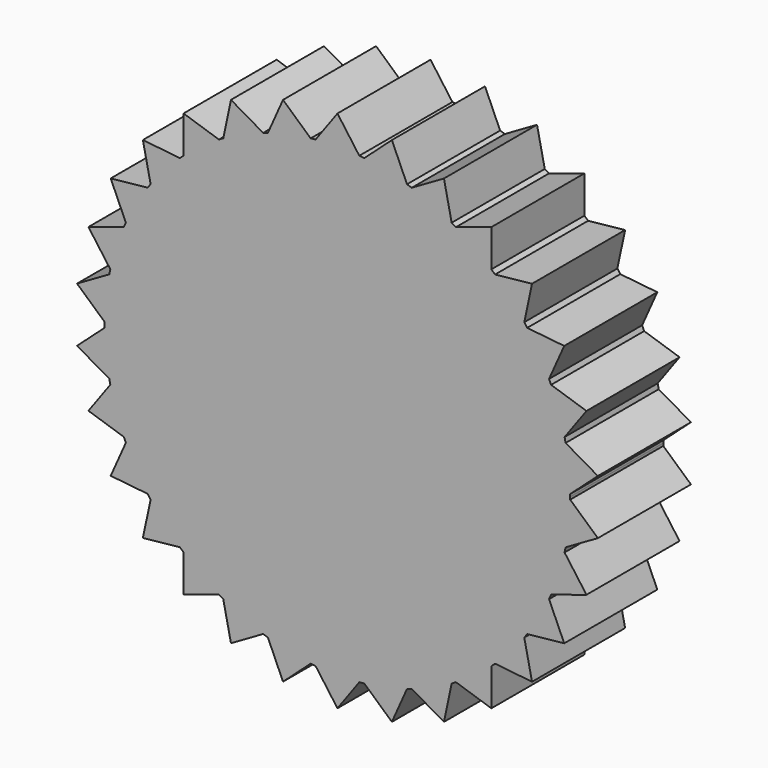
from build123d import *

# Parameters (mm, degrees)
F1_DEPTH = 12.7


with BuildPart() as f1:
    # F0 (on Front) → F1 (new body)
    with BuildSketch(Plane.XZ):
        with BuildLine():
            ThreePointArc((25.398552, -0.271215), (25.399638, -0.135609), (25.4, 0))
            ThreePointArc((25.4, 0), (25.399638, 0.135609), (25.398552, 0.271215))
            ThreePointArc((25.398552, 0.271215), (25.260856, 2.655023), (24.899921, 5.015368))
            ThreePointArc((24.899921, 5.015368), (24.844949, 5.280957), (24.787144, 5.545944))
            ThreePointArc((24.787144, 5.545944), (24.156836, 7.849032), (23.313045, 10.082755))
            ThreePointArc((23.313045, 10.082755), (23.204055, 10.331111), (23.092419, 10.578289))
            ThreePointArc((23.092419, 10.578289), (21.997045, 12.7), (20.707276, 14.709477))
            ThreePointArc((20.707276, 14.709477), (20.549032, 14.929745), (20.388444, 15.148311))
            ThreePointArc((20.388444, 15.148311), (18.875879, 16.995917), (17.1965, 18.693325))
            ThreePointArc((17.1965, 18.693325), (16.995917, 18.875879), (16.793397, 19.05628))
            ThreePointArc((16.793397, 19.05628), (14.929745, 20.549032), (12.934155, 21.860184))
            ThreePointArc((12.934155, 21.860184), (12.7, 21.997045), (12.464397, 22.131399))
            ThreePointArc((12.464397, 22.131399), (10.331111, 23.204055), (8.106525, 24.071648))
            ThreePointArc((8.106525, 24.071648), (7.849032, 24.156836), (7.590644, 24.239268))
            ThreePointArc((7.590644, 24.239268), (5.280957, 24.844949), (2.9246, 25.231066))
            ThreePointArc((2.9246, 25.231066), (2.655023, 25.260856), (2.385143, 25.287766))
            ThreePointArc((2.385143, 25.287766), (1.193891, 25.371926), (0, 25.4))
            ThreePointArc((0, 25.4), (-1.193891, 25.371926), (-2.385143, 25.287766))
            ThreePointArc((-2.385143, 25.287766), (-2.655023, 25.260856), (-2.9246, 25.231066))
            ThreePointArc((-2.9246, 25.231066), (-5.280957, 24.844949), (-7.590644, 24.239268))
            ThreePointArc((-7.590644, 24.239268), (-7.849032, 24.156836), (-8.106525, 24.071648))
            ThreePointArc((-8.106525, 24.071648), (-10.331111, 23.204055), (-12.464397, 22.131399))
            ThreePointArc((-12.464397, 22.131399), (-12.7, 21.997045), (-12.934155, 21.860184))
            ThreePointArc((-12.934155, 21.860184), (-14.929745, 20.549032), (-16.793397, 19.05628))
            ThreePointArc((-16.793397, 19.05628), (-16.995917, 18.875879), (-17.1965, 18.693325))
            ThreePointArc((-17.1965, 18.693325), (-18.875879, 16.995917), (-20.388444, 15.148311))
            ThreePointArc((-20.388444, 15.148311), (-20.549032, 14.929745), (-20.707276, 14.709477))
            ThreePointArc((-20.707276, 14.709477), (-21.997045, 12.7), (-23.092419, 10.578289))
            ThreePointArc((-23.092419, 10.578289), (-23.204055, 10.331111), (-23.313045, 10.082755))
            ThreePointArc((-23.313045, 10.082755), (-24.156836, 7.849032), (-24.787144, 5.545944))
            ThreePointArc((-24.787144, 5.545944), (-24.844949, 5.280957), (-24.899921, 5.015368))
            ThreePointArc((-24.899921, 5.015368), (-25.260856, 2.655023), (-25.398552, 0.271215))
            ThreePointArc((-25.398552, 0.271215), (-25.4, 0), (-25.398552, -0.271215))
            ThreePointArc((-25.398552, -0.271215), (-25.260856, -2.655023), (-24.899921, -5.015368))
            ThreePointArc((-24.899921, -5.015368), (-24.844949, -5.280957), (-24.787144, -5.545944))
            ThreePointArc((-24.787144, -5.545944), (-24.156836, -7.849032), (-23.313045, -10.082755))
            ThreePointArc((-23.313045, -10.082755), (-23.204055, -10.331111), (-23.092419, -10.578289))
            ThreePointArc((-23.092419, -10.578289), (-21.997045, -12.7), (-20.707276, -14.709477))
            ThreePointArc((-20.707276, -14.709477), (-20.549032, -14.929745), (-20.388444, -15.148311))
            ThreePointArc((-20.388444, -15.148311), (-18.875879, -16.995917), (-17.1965, -18.693325))
            ThreePointArc((-17.1965, -18.693325), (-16.995917, -18.875879), (-16.793397, -19.05628))
            ThreePointArc((-16.793397, -19.05628), (-14.929745, -20.549032), (-12.934155, -21.860184))
            ThreePointArc((-12.934155, -21.860184), (-12.7, -21.997045), (-12.464397, -22.131399))
            ThreePointArc((-12.464397, -22.131399), (-10.331111, -23.204055), (-8.106525, -24.071648))
            ThreePointArc((-8.106525, -24.071648), (-7.849032, -24.156836), (-7.590644, -24.239268))
            ThreePointArc((-7.590644, -24.239268), (-5.280957, -24.844949), (-2.9246, -25.231066))
            ThreePointArc((-2.9246, -25.231066), (-2.655023, -25.260856), (-2.385143, -25.287766))
            ThreePointArc((-2.385143, -25.287766), (0, -25.4), (2.385143, -25.287766))
            ThreePointArc((2.385143, -25.287766), (2.655023, -25.260856), (2.9246, -25.231066))
            ThreePointArc((2.9246, -25.231066), (5.280957, -24.844949), (7.590644, -24.239268))
            ThreePointArc((7.590644, -24.239268), (7.849032, -24.156836), (8.106525, -24.071648))
            ThreePointArc((8.106525, -24.071648), (10.331111, -23.204055), (12.464397, -22.131399))
            ThreePointArc((12.464397, -22.131399), (12.7, -21.997045), (12.934155, -21.860184))
            ThreePointArc((12.934155, -21.860184), (14.929745, -20.549032), (16.793397, -19.05628))
            ThreePointArc((16.793397, -19.05628), (16.995917, -18.875879), (17.1965, -18.693325))
            ThreePointArc((17.1965, -18.693325), (18.875879, -16.995917), (20.388444, -15.148311))
            ThreePointArc((20.388444, -15.148311), (20.549032, -14.929745), (20.707276, -14.709477))
            ThreePointArc((20.707276, -14.709477), (21.997045, -12.7), (23.092419, -10.578289))
            ThreePointArc((23.092419, -10.578289), (23.204055, -10.331111), (23.313045, -10.082755))
            ThreePointArc((23.313045, -10.082755), (24.156836, -7.849032), (24.787144, -5.545944))
            ThreePointArc((24.787144, -5.545944), (24.844949, -5.280957), (24.899921, -5.015368))
            ThreePointArc((24.899921, -5.015368), (25.260856, -2.655023), (25.398552, -0.271215))
        make_face()
        with BuildLine():
            ThreePointArc((24.899921, 5.015368), (25.260856, 2.655023), (25.398552, 0.271215))
            Line((25.398552, 0.271215), (28.418463, 2.986901))
            Line((28.418463, 2.986901), (24.899921, 5.015368))
        make_face()
        with BuildLine():
            Line((28.418463, -2.986901), (25.398552, -0.271215))
            ThreePointArc((25.398552, -0.271215), (25.260856, -2.655023), (24.899921, -5.015368))
            Line((24.899921, -5.015368), (28.418463, -2.986901))
        make_face()
        with BuildLine():
            ThreePointArc((23.313045, 10.082755), (24.156836, 7.849032), (24.787144, 5.545944))
            Line((24.787144, 5.545944), (27.17644, 8.830161))
            Line((27.17644, 8.830161), (23.313045, 10.082755))
        make_face()
        with BuildLine():
            Line((27.17644, -8.830161), (24.787144, -5.545944))
            ThreePointArc((24.787144, -5.545944), (24.156836, -7.849032), (23.313045, -10.082755))
            Line((23.313045, -10.082755), (27.17644, -8.830161))
        make_face()
        with BuildLine():
            ThreePointArc((20.707276, 14.709477), (21.997045, 12.7), (23.092419, 10.578289))
            Line((23.092419, 10.578289), (24.746676, 14.2875))
            Line((24.746676, 14.2875), (20.707276, 14.709477))
        make_face()
        with BuildLine():
            Line((24.746676, -14.2875), (23.092419, -10.578289))
            ThreePointArc((23.092419, -10.578289), (21.997045, -12.7), (20.707276, -14.709477))
            Line((20.707276, -14.709477), (24.746676, -14.2875))
        make_face()
        with BuildLine():
            ThreePointArc((17.1965, 18.693325), (18.875879, 16.995917), (20.388444, 15.148311))
            Line((20.388444, 15.148311), (21.235363, 19.120407))
            Line((21.235363, 19.120407), (17.1965, 18.693325))
        make_face()
        with BuildLine():
            Line((21.235363, -19.120407), (20.388444, -15.148311))
            ThreePointArc((20.388444, -15.148311), (18.875879, -16.995917), (17.1965, -18.693325))
            Line((17.1965, -18.693325), (21.235363, -19.120407))
        make_face()
        with BuildLine():
            ThreePointArc((12.934155, 21.860184), (14.929745, 20.549032), (16.793397, 19.05628))
            Line((16.793397, 19.05628), (16.795964, 23.117661))
            Line((16.795964, 23.117661), (12.934155, 21.860184))
        make_face()
        with BuildLine():
            Line((16.795964, -23.117661), (16.793397, -19.05628))
            ThreePointArc((16.793397, -19.05628), (14.929745, -20.549032), (12.934155, -21.860184))
            Line((12.934155, -21.860184), (16.795964, -23.117661))
        make_face()
        with BuildLine():
            ThreePointArc((8.106525, 24.071648), (10.331111, 23.204055), (12.464397, 22.131399))
            Line((12.464397, 22.131399), (11.6225, 26.104561))
            Line((11.6225, 26.104561), (8.106525, 24.071648))
        make_face()
        with BuildLine():
            Line((11.6225, -26.104561), (12.464397, -22.131399))
            ThreePointArc((12.464397, -22.131399), (10.331111, -23.204055), (8.106525, -24.071648))
            Line((8.106525, -24.071648), (11.6225, -26.104561))
        make_face()
        with BuildLine():
            ThreePointArc((2.9246, 25.231066), (5.280957, 24.844949), (7.590644, 24.239268))
            Line((7.590644, 24.239268), (5.941077, 27.950568))
            Line((5.941077, 27.950568), (2.9246, 25.231066))
        make_face()
        with BuildLine():
            Line((5.941077, -27.950568), (7.590644, -24.239268))
            ThreePointArc((7.590644, -24.239268), (5.280957, -24.844949), (2.9246, -25.231066))
            Line((2.9246, -25.231066), (5.941077, -27.950568))
        make_face()
        with BuildLine():
            ThreePointArc((0, 25.4), (1.193891, 25.371926), (2.385143, 25.287766))
            Line((2.385143, 25.287766), (0, 28.575))
            Line((0, 28.575), (0, 25.4))
        make_face()
        with BuildLine():
            Line((0, -28.575), (2.385143, -25.287766))
            ThreePointArc((2.385143, -25.287766), (0, -25.4), (-2.385143, -25.287766))
            Line((-2.385143, -25.287766), (0, -28.575))
        make_face()
        with BuildLine():
            ThreePointArc((-2.385143, 25.287766), (-1.193891, 25.371926), (0, 25.4))
            Line((0, 25.4), (0, 28.575))
            Line((0, 28.575), (-2.385143, 25.287766))
        make_face()
        with BuildLine():
            Line((-5.941077, -27.950568), (-2.9246, -25.231066))
            ThreePointArc((-2.9246, -25.231066), (-5.280957, -24.844949), (-7.590644, -24.239268))
            Line((-7.590644, -24.239268), (-5.941077, -27.950568))
        make_face()
        with BuildLine():
            ThreePointArc((-7.590644, 24.239268), (-5.280957, 24.844949), (-2.9246, 25.231066))
            Line((-2.9246, 25.231066), (-5.941077, 27.950568))
            Line((-5.941077, 27.950568), (-7.590644, 24.239268))
        make_face()
        with BuildLine():
            Line((-11.6225, -26.104561), (-8.106525, -24.071648))
            ThreePointArc((-8.106525, -24.071648), (-10.331111, -23.204055), (-12.464397, -22.131399))
            Line((-12.464397, -22.131399), (-11.6225, -26.104561))
        make_face()
        with BuildLine():
            ThreePointArc((-12.464397, 22.131399), (-10.331111, 23.204055), (-8.106525, 24.071648))
            Line((-8.106525, 24.071648), (-11.6225, 26.104561))
            Line((-11.6225, 26.104561), (-12.464397, 22.131399))
        make_face()
        with BuildLine():
            Line((-16.795964, -23.117661), (-12.934155, -21.860184))
            ThreePointArc((-12.934155, -21.860184), (-14.929745, -20.549032), (-16.793397, -19.05628))
            Line((-16.793397, -19.05628), (-16.795964, -23.117661))
        make_face()
        with BuildLine():
            ThreePointArc((-16.793397, 19.05628), (-14.929745, 20.549032), (-12.934155, 21.860184))
            Line((-12.934155, 21.860184), (-16.795964, 23.117661))
            Line((-16.795964, 23.117661), (-16.793397, 19.05628))
        make_face()
        with BuildLine():
            Line((-21.235363, -19.120407), (-17.1965, -18.693325))
            ThreePointArc((-17.1965, -18.693325), (-18.875879, -16.995917), (-20.388444, -15.148311))
            Line((-20.388444, -15.148311), (-21.235363, -19.120407))
        make_face()
        with BuildLine():
            ThreePointArc((-20.388444, 15.148311), (-18.875879, 16.995917), (-17.1965, 18.693325))
            Line((-17.1965, 18.693325), (-21.235363, 19.120407))
            Line((-21.235363, 19.120407), (-20.388444, 15.148311))
        make_face()
        with BuildLine():
            Line((-24.746676, -14.2875), (-20.707276, -14.709477))
            ThreePointArc((-20.707276, -14.709477), (-21.997045, -12.7), (-23.092419, -10.578289))
            Line((-23.092419, -10.578289), (-24.746676, -14.2875))
        make_face()
        with BuildLine():
            ThreePointArc((-23.092419, 10.578289), (-21.997045, 12.7), (-20.707276, 14.709477))
            Line((-20.707276, 14.709477), (-24.746676, 14.2875))
            Line((-24.746676, 14.2875), (-23.092419, 10.578289))
        make_face()
        with BuildLine():
            Line((-27.17644, -8.830161), (-23.313045, -10.082755))
            ThreePointArc((-23.313045, -10.082755), (-24.156836, -7.849032), (-24.787144, -5.545944))
            Line((-24.787144, -5.545944), (-27.17644, -8.830161))
        make_face()
        with BuildLine():
            ThreePointArc((-24.787144, 5.545944), (-24.156836, 7.849032), (-23.313045, 10.082755))
            Line((-23.313045, 10.082755), (-27.17644, 8.830161))
            Line((-27.17644, 8.830161), (-24.787144, 5.545944))
        make_face()
        with BuildLine():
            Line((-28.418463, -2.986901), (-24.899921, -5.015368))
            ThreePointArc((-24.899921, -5.015368), (-25.260856, -2.655023), (-25.398552, -0.271215))
            Line((-25.398552, -0.271215), (-28.418463, -2.986901))
        make_face()
        with BuildLine():
            ThreePointArc((-25.398552, 0.271215), (-25.260856, 2.655023), (-24.899921, 5.015368))
            Line((-24.899921, 5.015368), (-28.418463, 2.986901))
            Line((-28.418463, 2.986901), (-25.398552, 0.271215))
        make_face()
    extrude(amount=F1_DEPTH)


solid = f1.part
